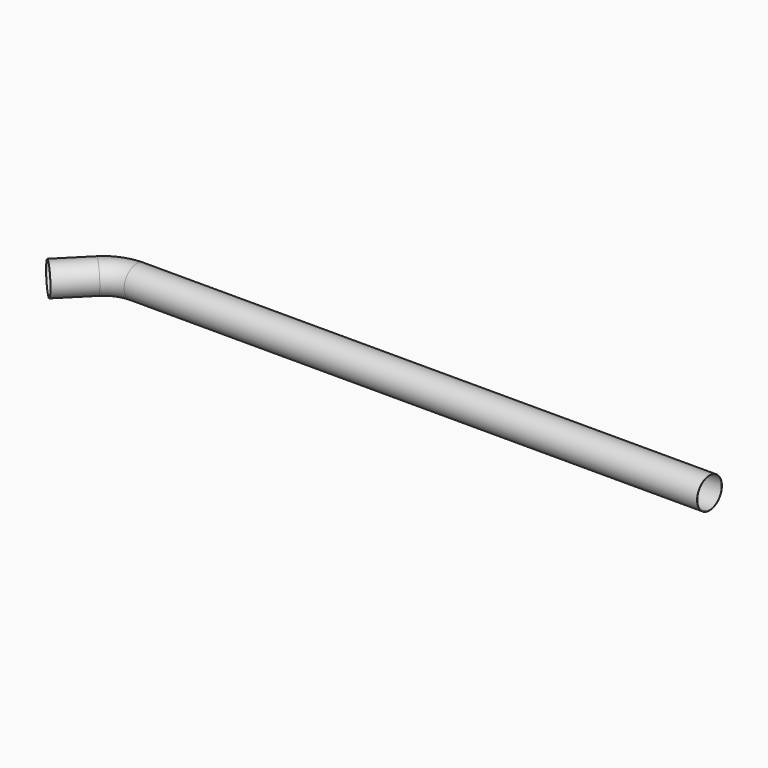
from build123d import *

# Parameters (mm, degrees)
F0_R   = 150
F0_R_2 = 148


with BuildPart() as f2:
    # F2: sweep along a path in F1
    with BuildLine(Plane.XY) as f2_path:
        Line((0, 0), (-5534.314575, 0))
        ThreePointArc((-5534.314575, 0), (-5687.387948, -30.448187), (-5817.157288, -117.157288))
        Line((-5817.157288, -117.157288), (-6081.837662, -381.837662))
    # F0 (on Right) → F2 (sweep)
    with BuildSketch(Plane.YZ):
        Circle(F0_R)
        Circle(F0_R_2, mode=Mode.SUBTRACT)
    sweep(path=f2_path.line)


solid = f2.part
